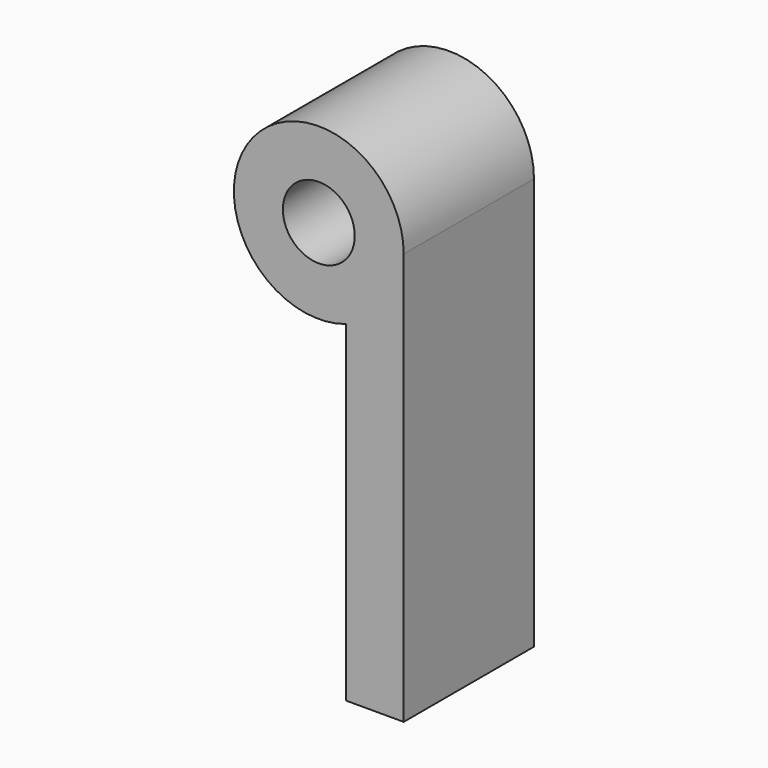
from build123d import *

# Parameters (mm, degrees)
F0_R     = 7.5
F1_DEPTH = 17


with BuildPart() as f1:
    # F0 (on Front) → F1 (new body, symmetric)
    with BuildSketch(Plane.XZ):
        with BuildLine():
            Line((17.726332, -86), (17.726332, 0))
            ThreePointArc((17.726332, 0), (-14.417519, 10.313001), (5.726332, -16.775934))
            Line((5.726332, -16.775934), (5.726332, -86))
            Line((5.726332, -86), (17.726332, -86))
        make_face()
        Circle(F0_R, mode=Mode.SUBTRACT)
    extrude(amount=F1_DEPTH, both=True)


solid = f1.part
